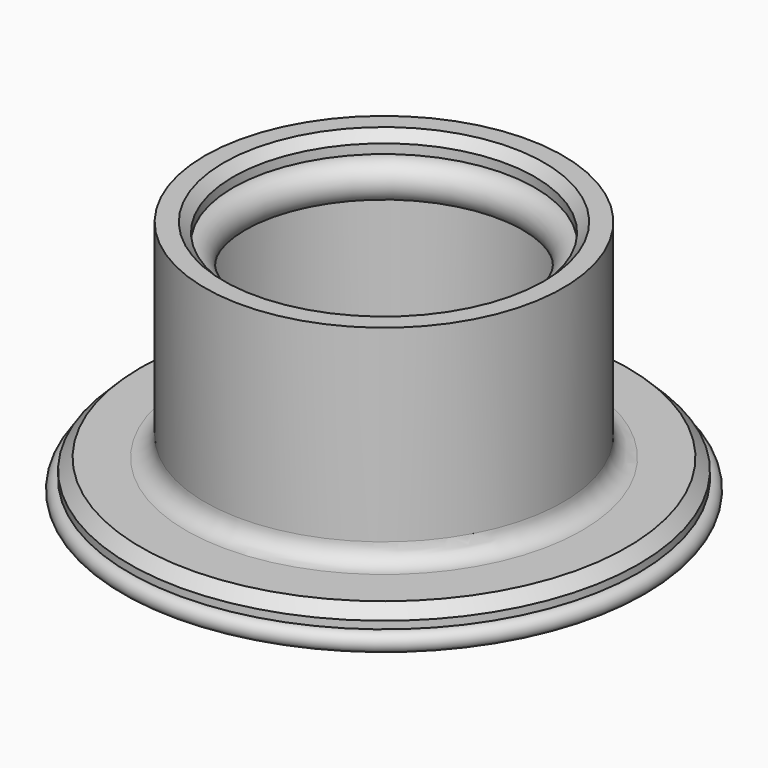
from build123d import *

# Parameters (mm, degrees)
F5_SIZE = 0.6
F6_W    = 1.5
F6_H    = 1.5
F8_R    = 1


with BuildPart() as f2:
    # F0 (on Front) → F2 (revolve)
    with BuildSketch(Plane.XZ):
        with BuildLine():
            Line((-13.5, 2), (-13.5, 0))
            Line((-13.5, 0), (-8, 0))
            Line((-8, 0), (-8, 10))
            ThreePointArc((-8, 10), (-7, 11), (-8, 12))
            Line((-8, 12), (-8, 12.5))
            Line((-8, 12.5), (-8.5, 13))
            Line((-8.5, 13), (-9.5, 13))
            Line((-9.5, 13), (-9.5, 2))
            Line((-9.5, 2), (-13.5, 2))
        make_face()
    revolve(axis=Axis((0, 0, 16.170651), (0, 0, 1)))

    # F3 (on Front) → F4 (revolve)
    with BuildSketch(Plane.XZ):
        with BuildLine():
            ThreePointArc((-13.5, 1), (-14, 0.5), (-13.5, 0))
            Line((-13.5, 0), (-13.5, 1))
        make_face()
    revolve(axis=Axis((0, 0, 16.170651), (0, 0, 1)))

    # F5
    f5_edges = [f2.edges().sort_by_distance(p)[0] for p in [
        (13.5, 0, 2),
    ]]
    chamfer(f5_edges, length=F5_SIZE)

    # F6 (on Front) → F7 (revolve)
    with BuildSketch(Plane.XZ):
        with Locations((-7.25, 0.75)):
            Rectangle(F6_W, F6_H)
    revolve(axis=Axis((0, 0, 16.170651), (0, 0, 1)))

    # F8
    f8_edges = [f2.edges().sort_by_distance(p)[0] for p in [
        (9.5, 0, 2),
        (6.5, 0, 0),
    ]]
    fillet(f8_edges, radius=F8_R)


solid = f2.part
